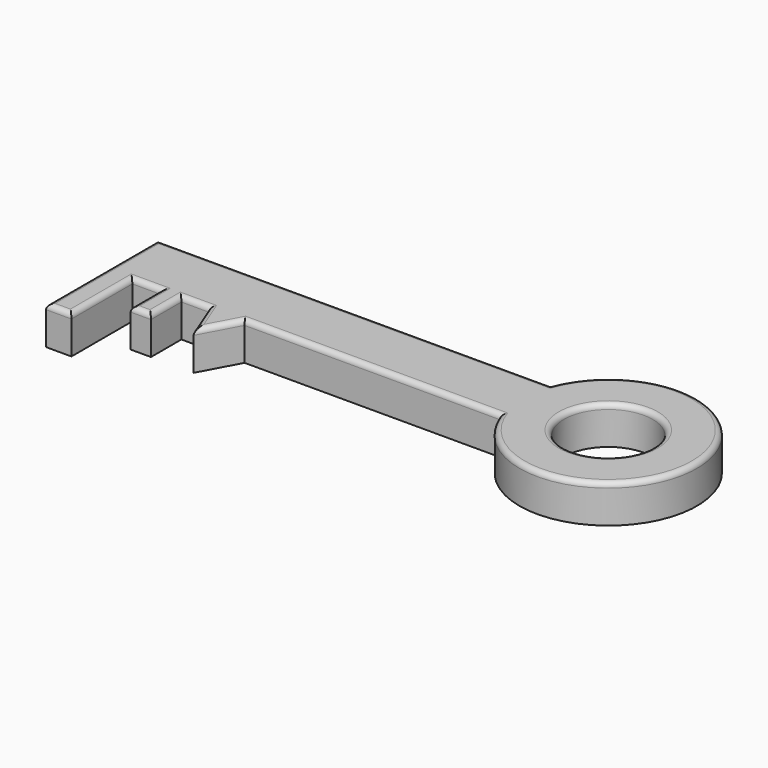
from build123d import *

# Parameters (mm, degrees)
F0_W     = 10
F0_H     = 30
F0_W_2   = 8
F0_H_2   = 15
F0_R     = 17.5
F1_DEPTH = 15
F2_R     = 2


with BuildPart() as f1:
    # F0 (on Top) → F1 (new body)
    with BuildSketch(Plane.XY):
        Polygon((82.016129, 25), (-72.983871, 25), (-72.983871, 0), (-62.983871, 0), (-51.628061, 0), (-43.628061, 0), (-32.704365, 0), (-18.704365, 0), (82.016129, 0), align=None)
        with Locations((-67.983871, -15)):
            Rectangle(F0_W, F0_H)
        with Locations((-47.628061, -7.5)):
            Rectangle(F0_W_2, F0_H_2)
        Polygon((-26.785838, -15), (-18.704365, 0), (-32.704365, 0), align=None)
        with BuildLine():
            ThreePointArc((82.016129, 0), (149.707871, 12.5), (82.016129, 25))
            Line((82.016129, 25), (82.016129, 0))
        make_face()
        with Locations((114.707871, 12.5)):
            Circle(F0_R, mode=Mode.SUBTRACT)
    extrude(amount=F1_DEPTH)

    # F2
    f2_edges = [f1.edges().sort_by_distance(p)[0] for p in [
        (-72.983871, -2.5, 15),
        (-62.983871, -15, 15),
        (-67.983871, -30, 15),
        (-47.628061, -15, 15),
        (-43.628061, -7.5, 15),
        (-29.745101, -7.5, 15),
        (4.516129, 25, 15),
        (-57.305966, 0, 15),
        (-51.628061, -7.5, 15),
        (-38.166213, 0, 15),
        (-22.745101, -7.5, 15),
        (31.655882, 0, 15),
        (149.707871, 12.5, 15),
        (97.207871, 12.5, 15),
    ]]
    fillet(f2_edges, radius=F2_R)


solid = f1.part
